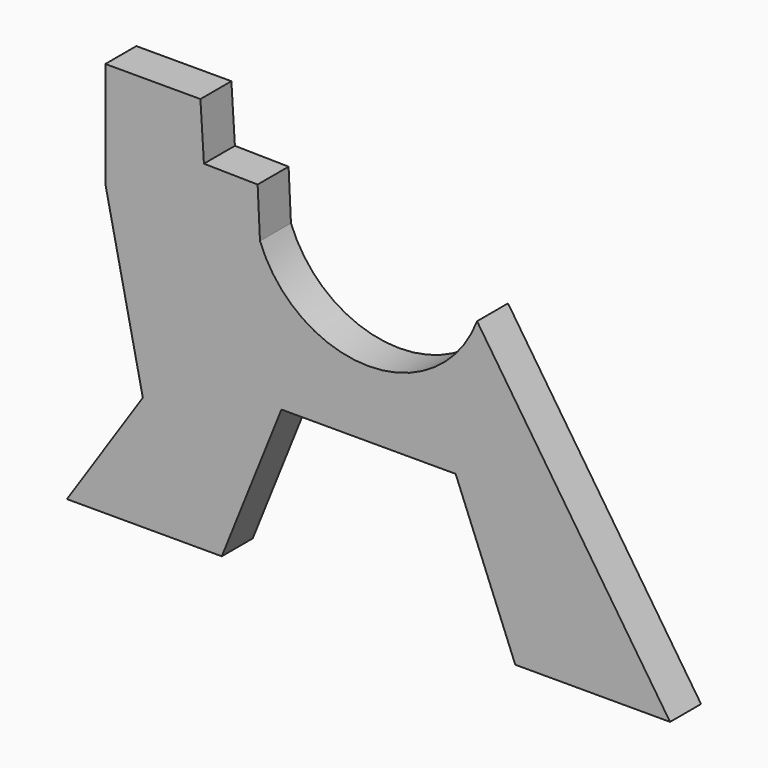
from build123d import *

# Parameters (mm, degrees)
F1_DEPTH = 2


with BuildPart() as f1:
    # F0 (on Front) → F1 (new body)
    with BuildSketch(Plane.XZ):
        with BuildLine():
            Line((7.582128, 0), (15.582128, 0))
            Line((15.582128, 0), (5.60828, 14.98407))
            ThreePointArc((5.60828, 14.98407), (0, 11.116486), (-5.60828, 14.98407))
            Line((-5.60828, 14.98407), (-11.662617, 5.888422))
            Line((-11.662617, 5.888422), (-15.582128, 0))
            Line((-15.582128, 0), (-7.582128, 0))
            Line((-7.582128, 0), (-4.5, 7.679838))
            Line((-4.5, 7.679838), (4.5, 7.679838))
            Line((4.5, 7.679838), (7.582128, 0))
        make_face()
        Polygon((-11.662617, 5.888422), (-5.60828, 14.98407), (-5.730158, 17.515007), (-8.504199, 17.560361), (-8.686104, 20.440266), (-13.597518, 20.440266), (-13.597518, 14.98407), align=None)
    extrude(amount=F1_DEPTH)


solid = f1.part
